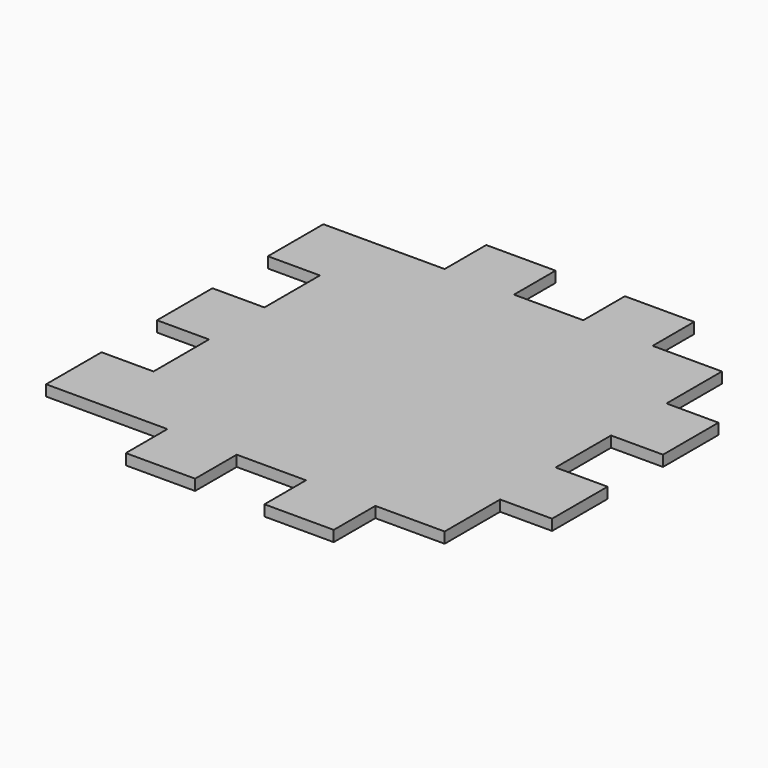
from build123d import *

# Parameters (mm, degrees)
F0_W     = 7.62
F0_H     = 10.16
F0_W_2   = 10.16
F0_H_2   = 7.62
F1_DEPTH = 1.5875


with BuildPart() as f1:
    # F0 (on Top) → F1 (new body)
    with BuildSketch(Plane.XY):
        Polygon((25.4, 15.24), (25.4, 25.4), (15.24, 25.4), (5.08, 25.4), (-5.08, 25.4), (-15.24, 25.4), (-25.4, 25.4), (-25.4, 15.24), (-25.4, 5.08), (-25.4, -5.08), (-25.4, -15.24), (-25.4, -25.4), (-15.24, -25.4), (-5.08, -25.4), (5.08, -25.4), (15.24, -25.4), (25.4, -25.4), (25.4, -15.24), (25.4, -5.08), (25.4, 5.08), align=None)
        with Locations((-29.21, 0)):
            Rectangle(F0_W, F0_H)
        with Locations((-29.21, 20.32)):
            Rectangle(F0_W, F0_H)
        with Locations((-10.16, 29.21)):
            Rectangle(F0_W_2, F0_H_2)
        with Locations((10.16, 29.21)):
            Rectangle(F0_W_2, F0_H_2)
        with Locations((29.21, 10.16)):
            Rectangle(F0_W, F0_H)
        with Locations((29.21, -10.16)):
            Rectangle(F0_W, F0_H)
        with Locations((10.16, -29.21)):
            Rectangle(F0_W_2, F0_H_2)
        with Locations((-10.16, -29.21)):
            Rectangle(F0_W_2, F0_H_2)
        with Locations((-29.21, -20.32)):
            Rectangle(F0_W, F0_H)
    extrude(amount=F1_DEPTH)


solid = f1.part
